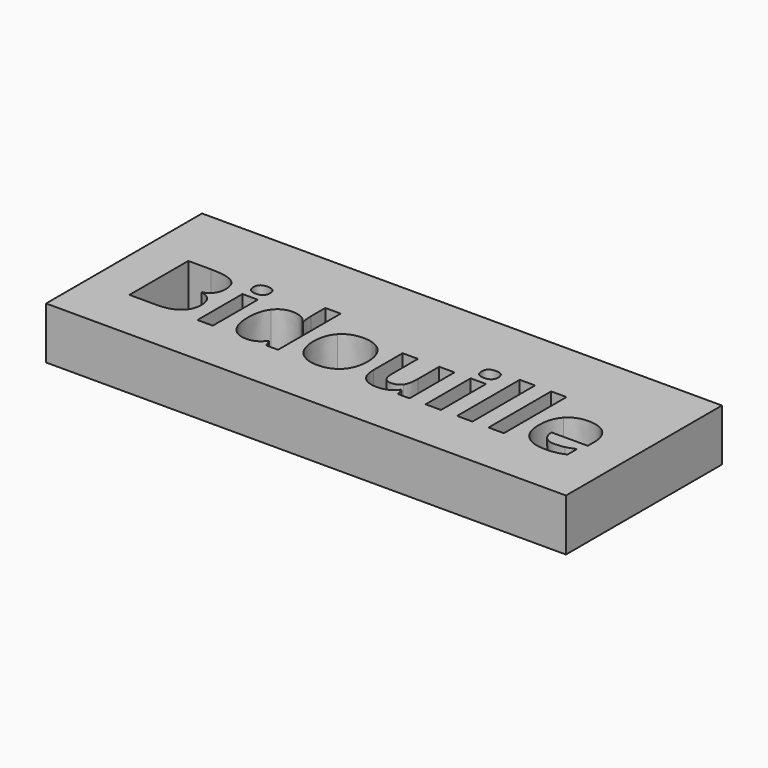
from build123d import *

# Parameters (mm, degrees)
F0_W     = 80
F0_H     = 30
F0_W_2   = 2.3612487611
F0_H_2   = 8.657086224
F0_H_3   = 12.0490584737
F1_DEPTH = 8


with BuildPart() as f1:
    # F0 (on Top) → F1 (new body)
    with BuildSketch(Plane.XY):
        with Locations((4.3256281316, -17.6894681206)):
            Rectangle(F0_W, F0_H)
        with Locations((-17.6007841578, -20.3609250086)):
            Rectangle(F0_W_2, F0_H_2, mode=Mode.SUBTRACT)
        with BuildLine():
            Line((-29.2496939695, -24.6894681206), (-29.2496939695, -13.3688536509))
            Line((-29.2496939695, -13.3688536509), (-25.7264035829, -13.3688536509))
            add(Edge.make_bspline(
                [(-25.7264035829, -13.3688536509), (-23.3180785086, -13.3688536509), (-22.2303679041, -14.0539378927)],
                knots=[0, 0, 0, 1, 1, 1], degree=2))
            add(Edge.make_bspline(
                [(-22.2303679041, -14.0539378927), (-21.1426572995, -14.7390221345), (-21.1426572995, -16.2330756528)],
                knots=[0, 0, 0, 1, 1, 1], degree=2))
            add(Edge.make_bspline(
                [(-21.1426572995, -16.2330756528), (-21.1426572995, -17.2489329373), (-21.6183758327, -17.8993293694)],
                knots=[0, 0, 0, 1, 1, 1], degree=2))
            add(Edge.make_bspline(
                [(-21.6183758327, -17.8993293694), (-22.0940943659, -18.5497258015), (-22.8844808872, -18.6810439383)],
                knots=[0, 0, 0, 1, 1, 1], degree=2))
            Line((-22.8844808872, -18.6810439383), (-22.8844808872, -18.7578526598))
            add(Edge.make_bspline(
                [(-22.8844808872, -18.7578526598), (-21.8091587861, -18.9981896271), (-21.3322014026, -19.6560191613)],
                knots=[0, 0, 0, 1, 1, 1], degree=2))
            add(Edge.make_bspline(
                [(-21.3322014026, -19.6560191613), (-20.855244019, -20.3138486955), (-20.855244019, -21.4065147014)],
                knots=[0, 0, 0, 1, 1, 1], degree=2))
            add(Edge.make_bspline(
                [(-20.855244019, -21.4065147014), (-20.855244019, -22.955077635), (-21.9751647326, -23.8222728778)],
                knots=[0, 0, 0, 1, 1, 1], degree=2))
            add(Edge.make_bspline(
                [(-21.9751647326, -23.8222728778), (-23.0950854462, -24.6894681206), (-25.0153034838, -24.6894681206)],
                knots=[0, 0, 0, 1, 1, 1], degree=2))
            Line((-25.0153034838, -24.6894681206), (-29.2496939695, -24.6894681206))
        make_face(mode=Mode.SUBTRACT)
        with BuildLine():
            add(Edge.make_bspline(
                [(-8.7467207286, -23.5670697064), (-9.5519734541, -24.8455632643), (-11.2021221161, -24.8455632643)],
                knots=[0, 0, 0, 1, 1, 1], degree=2))
            add(Edge.make_bspline(
                [(-11.2021221161, -24.8455632643), (-12.7259080428, -24.8455632643), (-13.5968198367, -23.6599834824)],
                knots=[0, 0, 0, 1, 1, 1], degree=2))
            add(Edge.make_bspline(
                [(-13.5968198367, -23.6599834824), (-14.4677316305, -22.4744037004), (-14.4677316305, -20.3757912128)],
                knots=[0, 0, 0, 1, 1, 1], degree=2))
            add(Edge.make_bspline(
                [(-14.4677316305, -20.3757912128), (-14.4677316305, -18.2474463169), (-13.5819536325, -17.0593888342)],
                knots=[0, 0, 0, 1, 1, 1], degree=2))
            add(Edge.make_bspline(
                [(-13.5819536325, -17.0593888342), (-12.6961756345, -15.8713313516), (-11.1401795988, -15.8713313516)],
                knots=[0, 0, 0, 1, 1, 1], degree=2))
            add(Edge.make_bspline(
                [(-11.1401795988, -15.8713313516), (-9.5048971409, -15.8713313516), (-8.6451350002, -17.1399141068)],
                knots=[0, 0, 0, 1, 1, 1], degree=2))
            Line((-8.6451350002, -17.1399141068), (-8.5683262787, -17.1399141068))
            add(Edge.make_bspline(
                [(-8.5683262787, -17.1399141068), (-8.7467207286, -16.1711331355), (-8.7467207286, -15.4129567232)],
                knots=[0, 0, 0, 1, 1, 1], degree=2))
            Line((-8.7467207286, -15.4129567232), (-8.7467207286, -12.6404096469))
            Line((-8.7467207286, -12.6404096469), (-6.3780388654, -12.6404096469))
            Line((-6.3780388654, -12.6404096469), (-6.3780388654, -24.6894681206))
            Line((-6.3780388654, -24.6894681206), (-8.1892380725, -24.6894681206))
            Line((-8.1892380725, -24.6894681206), (-8.6451350002, -23.5670697064))
            Line((-8.6451350002, -23.5670697064), (-8.7467207286, -23.5670697064))
        make_face(mode=Mode.SUBTRACT)
        with BuildLine():
            add(Edge.make_bspline(
                [(3.448522086, -17.9687049888), (3.958928429, -18.9833234229), (3.958928429, -20.3460588045)],
                knots=[0, 0, 0, 1, 1, 1], degree=2))
            add(Edge.make_bspline(
                [(3.958928429, -20.3460588045), (3.958928429, -22.4595374963), (2.8439631168, -23.6525503803)],
                knots=[0, 0, 0, 1, 1, 1], degree=2))
            add(Edge.make_bspline(
                [(2.8439631168, -23.6525503803), (1.7289978046, -24.8455632643), (-0.2605958525, -24.8455632643)],
                knots=[0, 0, 0, 1, 1, 1], degree=2))
            add(Edge.make_bspline(
                [(-0.2605958525, -24.8455632643), (-1.5068793015, -24.8455632643), (-2.4595552182, -24.2992302614)],
                knots=[0, 0, 0, 1, 1, 1], degree=2))
            add(Edge.make_bspline(
                [(-2.4595552182, -24.2992302614), (-3.412231135, -23.7528972584), (-3.9226374779, -22.7308457222)],
                knots=[0, 0, 0, 1, 1, 1], degree=2))
            add(Edge.make_bspline(
                [(-3.9226374779, -22.7308457222), (-4.4330438208, -21.708794186), (-4.4330438208, -20.3460588045)],
                knots=[0, 0, 0, 1, 1, 1], degree=2))
            add(Edge.make_bspline(
                [(-4.4330438208, -20.3460588045), (-4.4330438208, -18.2251470106), (-3.326750461, -17.0482391811)],
                knots=[0, 0, 0, 1, 1, 1], degree=2))
            add(Edge.make_bspline(
                [(-3.326750461, -17.0482391811), (-2.2204571013, -15.8713313516), (-0.2135195393, -15.8713313516)],
                knots=[0, 0, 0, 1, 1, 1], degree=2))
            add(Edge.make_bspline(
                [(-0.2135195393, -15.8713313516), (1.0327639096, -15.8713313516), (1.9854398264, -16.4127089531)],
                knots=[0, 0, 0, 1, 1, 1], degree=2))
            add(Edge.make_bspline(
                [(1.9854398264, -16.4127089531), (2.9381157431, -16.9540865547), (3.448522086, -17.9687049888)],
                knots=[0, 0, 0, 1, 1, 1], degree=2))
        make_face(mode=Mode.SUBTRACT)
        with BuildLine():
            Line((13.8548649998, -24.6894681206), (12.0436657927, -24.6894681206))
            Line((12.0436657927, -24.6894681206), (11.7265201039, -23.5819359105))
            Line((11.7265201039, -23.5819359105), (11.6026350692, -23.5819359105))
            add(Edge.make_bspline(
                [(11.6026350692, -23.5819359105), (11.223546863, -24.1864948798), (10.5260741178, -24.5160290721)],
                knots=[0, 0, 0, 1, 1, 1], degree=2))
            add(Edge.make_bspline(
                [(10.5260741178, -24.5160290721), (9.8286013725, -24.8455632643), (8.9391068234, -24.8455632643)],
                knots=[0, 0, 0, 1, 1, 1], degree=2))
            add(Edge.make_bspline(
                [(8.9391068234, -24.8455632643), (7.412843196, -24.8455632643), (6.6385617292, -24.0279220354)],
                knots=[0, 0, 0, 1, 1, 1], degree=2))
            add(Edge.make_bspline(
                [(6.6385617292, -24.0279220354), (5.8642802625, -23.2102808065), (5.8642802625, -21.676584077)],
                knots=[0, 0, 0, 1, 1, 1], degree=2))
            Line((5.8642802625, -21.676584077), (5.8642802625, -16.0323818966))
            Line((5.8642802625, -16.0323818966), (8.2255290236, -16.0323818966))
            Line((8.2255290236, -16.0323818966), (8.2255290236, -21.0893690126))
            add(Edge.make_bspline(
                [(8.2255290236, -21.0893690126), (8.2255290236, -22.0259398748), (8.5587797669, -22.494225306)],
                knots=[0, 0, 0, 1, 1, 1], degree=2))
            add(Edge.make_bspline(
                [(8.5587797669, -22.494225306), (8.8920305102, -22.9625107371), (9.6204745142, -22.9625107371)],
                knots=[0, 0, 0, 1, 1, 1], degree=2))
            add(Edge.make_bspline(
                [(9.6204745142, -22.9625107371), (10.6115547917, -22.9625107371), (11.0525855152, -22.3009646519)],
                knots=[0, 0, 0, 1, 1, 1], degree=2))
            add(Edge.make_bspline(
                [(11.0525855152, -22.3009646519), (11.4936162387, -21.6394185666), (11.4936162387, -20.1057218372)],
                knots=[0, 0, 0, 1, 1, 1], degree=2))
            Line((11.4936162387, -20.1057218372), (11.4936162387, -16.0323818966))
            Line((11.4936162387, -16.0323818966), (13.8548649998, -16.0323818966))
            Line((13.8548649998, -16.0323818966), (13.8548649998, -24.6894681206))
        make_face(mode=Mode.SUBTRACT)
        with Locations((17.5131900741, -20.3609250086)):
            Rectangle(F0_W_2, F0_H_2, mode=Mode.SUBTRACT)
        with Locations((22.3521395291, -18.6649388838)):
            Rectangle(F0_W_2, F0_H_3, mode=Mode.SUBTRACT)
        with BuildLine():
            add(Edge.make_bspline(
                [(36.4861831366, -24.694423522), (35.7825161396, -24.8455632643), (34.7666588551, -24.8455632643)],
                knots=[0, 0, 0, 1, 1, 1], degree=2))
            add(Edge.make_bspline(
                [(34.7666588551, -24.8455632643), (32.6779571703, -24.8455632643), (31.5010493407, -23.690954741)],
                knots=[0, 0, 0, 1, 1, 1], degree=2))
            add(Edge.make_bspline(
                [(31.5010493407, -23.690954741), (30.3241415112, -22.5363462178), (30.3241415112, -20.422867526)],
                knots=[0, 0, 0, 1, 1, 1], degree=2))
            add(Edge.make_bspline(
                [(30.3241415112, -20.422867526), (30.3241415112, -18.2474463169), (31.4118521158, -17.0593888342)],
                knots=[0, 0, 0, 1, 1, 1], degree=2))
            add(Edge.make_bspline(
                [(31.4118521158, -17.0593888342), (32.4995627203, -15.8713313516), (34.419780758, -15.8713313516)],
                knots=[0, 0, 0, 1, 1, 1], degree=2))
            add(Edge.make_bspline(
                [(34.419780758, -15.8713313516), (36.2532792714, -15.8713313516), (37.2753308075, -16.915682194)],
                knots=[0, 0, 0, 1, 1, 1], degree=2))
            add(Edge.make_bspline(
                [(37.2753308075, -16.915682194), (38.2973823437, -17.9600330364), (38.2973823437, -19.8034423525)],
                knots=[0, 0, 0, 1, 1, 1], degree=2))
            Line((38.2973823437, -19.8034423525), (38.2973823437, -20.9506177738))
            Line((38.2973823437, -20.9506177738), (32.7151226807, -20.9506177738))
            add(Edge.make_bspline(
                [(32.7151226807, -20.9506177738), (32.7547658918, -21.9565642554), (33.3122485479, -22.5214800136)],
                knots=[0, 0, 0, 1, 1, 1], degree=2))
            add(Edge.make_bspline(
                [(33.3122485479, -22.5214800136), (33.869731204, -23.0863957718), (34.8756776856, -23.0863957718)],
                knots=[0, 0, 0, 1, 1, 1], degree=2))
            add(Edge.make_bspline(
                [(34.8756776856, -23.0863957718), (35.6586311049, -23.0863957718), (36.3548649998, -22.9241063763)],
                knots=[0, 0, 0, 1, 1, 1], degree=2))
            add(Edge.make_bspline(
                [(36.3548649998, -22.9241063763), (37.0510988948, -22.7618169809), (37.809275307, -22.405028081)],
                knots=[0, 0, 0, 1, 1, 1], degree=2))
            Line((37.809275307, -22.405028081), (37.809275307, -24.233571193))
            add(Edge.make_bspline(
                [(37.809275307, -24.233571193), (37.1898501336, -24.5432837797), (36.4861831366, -24.694423522)],
                knots=[0, 0, 0, 1, 1, 1], degree=2))
        make_face(mode=Mode.SUBTRACT)
        with Locations((27.191088984, -18.6649388838)):
            Rectangle(F0_W_2, F0_H_3, mode=Mode.SUBTRACT)
        with BuildLine():
            add(Edge.make_bspline(
                [(-17.5970676067, -14.9570597956), (-18.8829942668, -14.9570597956), (-18.8829942668, -13.7950181702)],
                knots=[0, 0, 0, 1, 1, 1], degree=2))
            add(Edge.make_bspline(
                [(-18.8829942668, -13.7950181702), (-18.8829942668, -12.6404096469), (-17.5970676067, -12.6404096469)],
                knots=[0, 0, 0, 1, 1, 1], degree=2))
            add(Edge.make_bspline(
                [(-17.5970676067, -12.6404096469), (-16.3111409467, -12.6404096469), (-16.3111409467, -13.7950181702)],
                knots=[0, 0, 0, 1, 1, 1], degree=2))
            add(Edge.make_bspline(
                [(-16.3111409467, -13.7950181702), (-16.3111409467, -14.3450677242), (-16.6320031865, -14.6510637599)],
                knots=[0, 0, 0, 1, 1, 1], degree=2))
            add(Edge.make_bspline(
                [(-16.6320031865, -14.6510637599), (-16.9528654264, -14.9570597956), (-17.5970676067, -14.9570597956)],
                knots=[0, 0, 0, 1, 1, 1], degree=2))
        make_face(mode=Mode.SUBTRACT)
        with BuildLine():
            add(Edge.make_bspline(
                [(17.5169066252, -14.9570597956), (16.2309799651, -14.9570597956), (16.2309799651, -13.7950181702)],
                knots=[0, 0, 0, 1, 1, 1], degree=2))
            add(Edge.make_bspline(
                [(16.2309799651, -13.7950181702), (16.2309799651, -12.6404096469), (17.5169066252, -12.6404096469)],
                knots=[0, 0, 0, 1, 1, 1], degree=2))
            add(Edge.make_bspline(
                [(17.5169066252, -12.6404096469), (18.8028332852, -12.6404096469), (18.8028332852, -13.7950181702)],
                knots=[0, 0, 0, 1, 1, 1], degree=2))
            add(Edge.make_bspline(
                [(18.8028332852, -13.7950181702), (18.8028332852, -14.3450677242), (18.4819710454, -14.6510637599)],
                knots=[0, 0, 0, 1, 1, 1], degree=2))
            add(Edge.make_bspline(
                [(18.4819710454, -14.6510637599), (18.1611088056, -14.9570597956), (17.5169066252, -14.9570597956)],
                knots=[0, 0, 0, 1, 1, 1], degree=2))
        make_face(mode=Mode.SUBTRACT)
    extrude(amount=F1_DEPTH)


solid = f1.part
